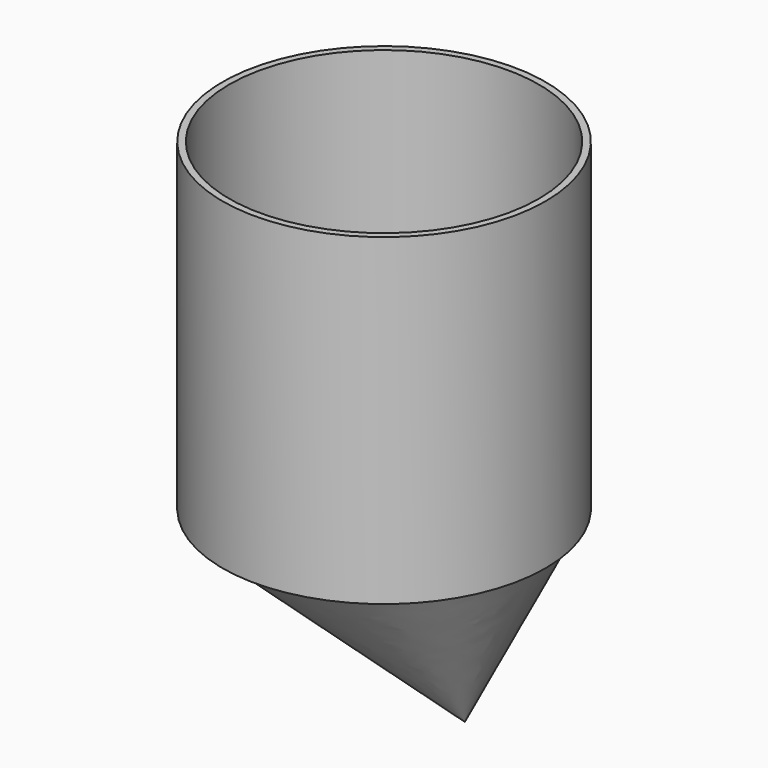
from build123d import *

# Parameters (mm, degrees)
F0_R       = 152.4
F1_DEPTH   = 304.8
F2_R       = 146.05
F3_DEPTH   = 292.1
F4_R       = 0.0127
F5_DEPTH   = 177.8
F6_R       = 0.0127
F7_DEPTH   = 152.4
F8_R       = 146.05
F7_FACE1_R = 0.0127
F10_R      = 0.0127
F11_DEPTH  = 25.4
F12_R      = 12.7
F13_DEPTH  = 165.1
F14_R      = 19.05
F14_R_2    = 12.7
F15_DEPTH  = 114.3


with BuildPart() as f1:
    # F0 (on Top) → F1 (new body)
    with BuildSketch(Plane.XY):
        Circle(F0_R)
    extrude(amount=F1_DEPTH)

    # F2 (on face) → F3 (cut)
    with BuildSketch(Plane.XY.offset(304.8)):
        Circle(F2_R)
    extrude(amount=-F3_DEPTH, mode=Mode.SUBTRACT)

    # F4 (on face) → F5 (join)
    with BuildSketch(Plane(origin=(0, 0, 0), x_dir=(1, 0, 0), z_dir=(0, 0, -1))):
        with Locations((76.2, 0)):
            Circle(F4_R)
    extrude(amount=F5_DEPTH)

    # F6 (on face) → F7 (cut)
    with BuildSketch(Plane(origin=(0, 0, 0), x_dir=(1, 0, 0), z_dir=(0, 0, -1))):
        with Locations((76.2, 0)):
            Circle(F6_R)
    extrude(amount=F7_DEPTH, mode=Mode.SUBTRACT)

    # F8 (on face) → F9 section 0
    with BuildSketch(Plane(origin=(0, 0, 0), x_dir=(1, 0, 0), z_dir=(0, 0, -1))):
        Circle(F8_R)
    # F7_face1 (on face) → F9 section 1
    with BuildSketch(Plane(origin=(76.2, 0, -152.4), x_dir=(1, 0, 0), z_dir=(0, 0, 1))):
        Circle(F7_FACE1_R)
    loft()

    # F10 (on face) → F11 (cut)
    with BuildSketch(Plane(origin=(0, 0, -177.8), x_dir=(1, 0, 0), z_dir=(0, 0, -1))):
        with Locations((76.2, 0)):
            Circle(F10_R)
    extrude(amount=-F11_DEPTH, mode=Mode.SUBTRACT)

    # F12 (on face) → F13 (cut)
    with BuildSketch(Plane.XY.offset(12.7)):
        with Locations((-76.2, 0)):
            Circle(F12_R)
    extrude(amount=-F13_DEPTH, mode=Mode.SUBTRACT)

    # F14 (on face) → F15 (join)
    with BuildSketch(Plane.XY.offset(12.7)):
        with Locations((-76.2, 0)):
            Circle(F14_R)
        with Locations((-76.2, 0)):
            Circle(F14_R_2, mode=Mode.SUBTRACT)
    extrude(amount=F15_DEPTH)


solid = f1.part
